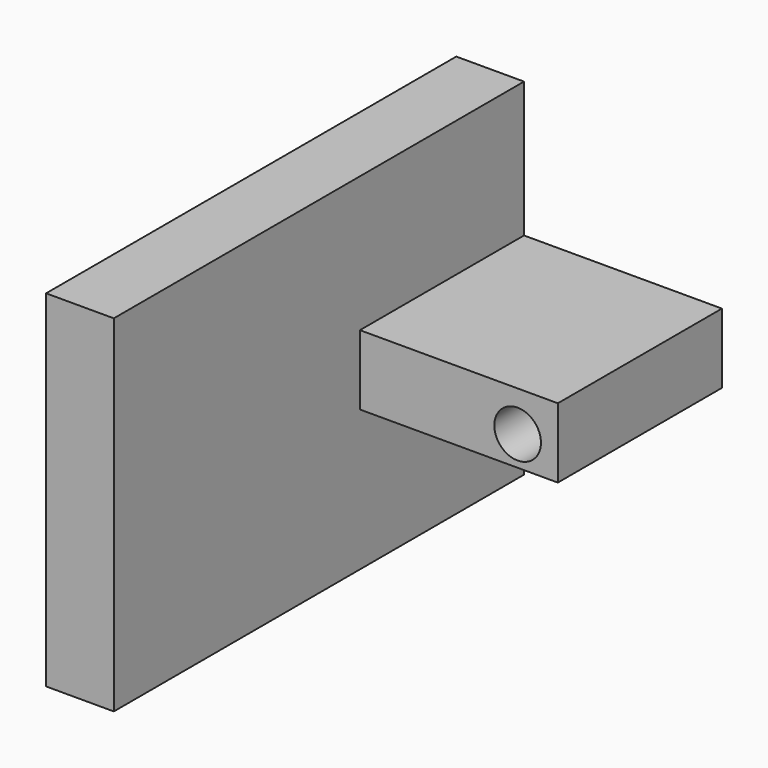
from build123d import *

# Parameters (mm, degrees)
F0_W     = 16.7774409056
F0_H     = 33.5548724979
F0_H_2   = 17.3017312773
F0_H_3   = 34.8656079732
F1_DEPTH = 127
F0_W_2   = 49.0215690807
F0_R     = 5.7731978052
F2_DEPTH = 50.8


with BuildPart() as f1:
    # F0 (on Front) → F1 (new body)
    with BuildSketch(Plane.XZ):
        with Locations((-67.8961873055, 26.7390394583)):
            Rectangle(F0_W, F0_H)
        with Locations((-67.8961873055, 1.3107375707)):
            Rectangle(F0_W, F0_H_2)
        with Locations((-67.8961873055, -24.7729320545)):
            Rectangle(F0_W, F0_H_3)
    extrude(amount=F1_DEPTH)

    # F0 (on Front) → F2 (join)
    with BuildSketch(Plane.XZ):
        with Locations((-34.9966823123, 1.3107375707)):
            Rectangle(F0_W_2, F0_H_2)
        with Locations((-20.4475000501, 0)):
            Circle(F0_R, mode=Mode.SUBTRACT)
    extrude(amount=F2_DEPTH)


solid = f1.part
